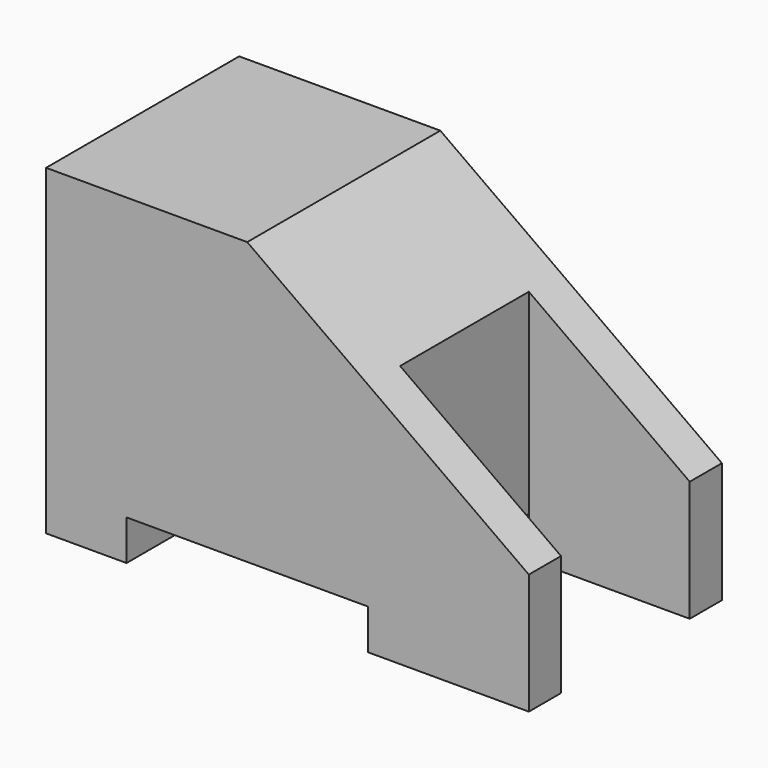
from build123d import *

# Parameters (mm, degrees)
F0_W     = 30
F0_H     = 20
F1_DEPTH = 15
F3_DEPTH = 15.001
F4_W     = 15
F4_H     = 2.5
F5_DEPTH = 15.001
F6_W     = 10
F6_H     = 10
F7_DEPTH = 20.001


with BuildPart() as f1:
    # F0 (on Front) → F1 (new body)
    with BuildSketch(Plane.XZ):
        with Locations((15, 10)):
            Rectangle(F0_W, F0_H)
    extrude(amount=F1_DEPTH)

    # F2 (on face) → F3 (cut, through all)
    with BuildSketch(Plane.XZ.offset(15)):
        Polygon((30, 7.5), (30, 20), (12.5, 20), align=None)
    extrude(amount=-F3_DEPTH, mode=Mode.SUBTRACT)

    # F4 (on face) → F5 (cut, through all)
    with BuildSketch(Plane.XZ.offset(15)):
        with Locations((12.5, 1.25)):
            Rectangle(F4_W, F4_H)
    extrude(amount=-F5_DEPTH, mode=Mode.SUBTRACT)

    # F6 (on face) → F7 (cut, through all)
    with BuildSketch(Plane.XY.offset(20)):
        with Locations((25, -7.5)):
            Rectangle(F6_W, F6_H)
    extrude(amount=-F7_DEPTH, mode=Mode.SUBTRACT)


solid = f1.part
